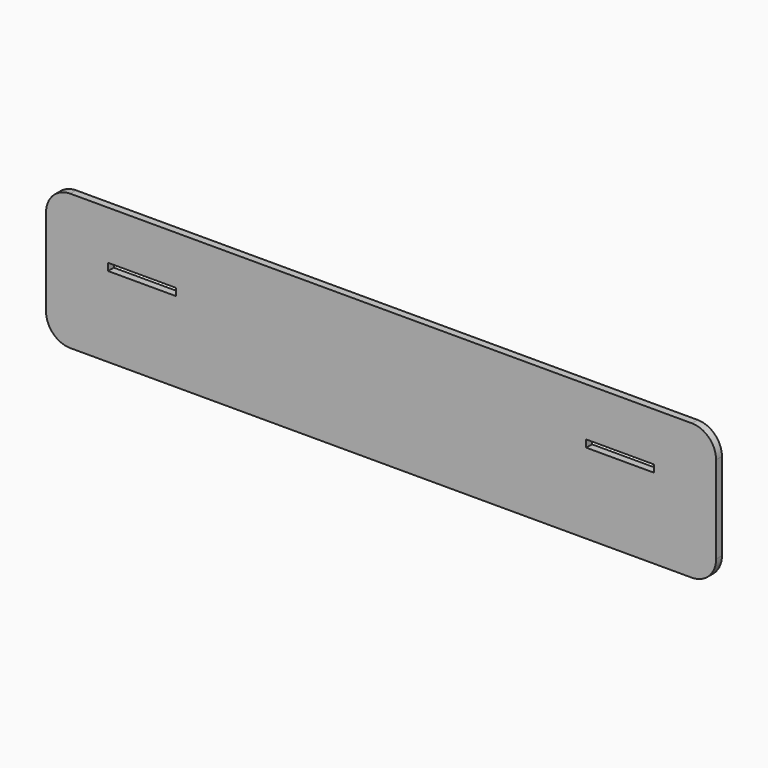
from build123d import *

# Parameters (mm, degrees)
F0_W     = 140
F0_H     = 15
F1_DEPTH = 15


with BuildPart() as f1:
    # F0 (on Front) → F1 (new body)
    with BuildSketch(Plane.XZ):
        with BuildLine():
            Line((640, 140), (-640, 140))
            ThreePointArc((-640, 140), (-675.355339, 125.355339), (-690, 90))
            Line((-690, 90), (-690, -90))
            ThreePointArc((-690, -90), (-675.355339, -125.355339), (-640, -140))
            Line((-640, -140), (640, -140))
            ThreePointArc((640, -140), (675.355339, -125.355339), (690, -90))
            Line((690, -90), (690, 90))
            ThreePointArc((690, 90), (675.355339, 125.355339), (640, 140))
        make_face()
        with Locations((-492.5, 32.5)):
            Rectangle(F0_W, F0_H, mode=Mode.SUBTRACT)
        with Locations((492.5, 32.5)):
            Rectangle(F0_W, F0_H, mode=Mode.SUBTRACT)
    extrude(amount=F1_DEPTH)


solid = f1.part
